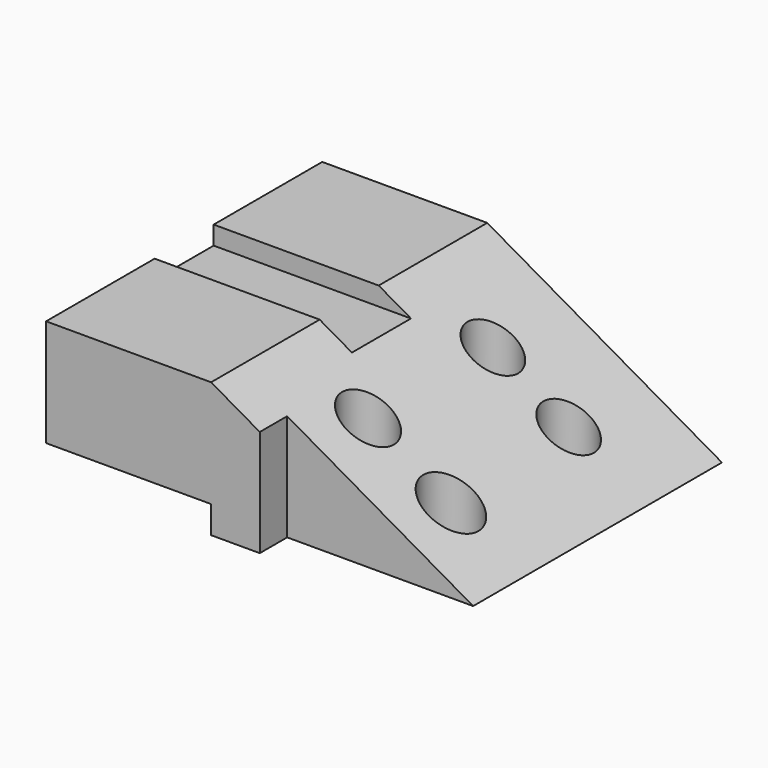
from build123d import *

# Parameters (mm, degrees)
F1_DEPTH  = 76.2
F2_DEPTH  = 76.2
F3_W      = 72.8542578737
F3_H      = 12.1001238003
F4_DEPTH  = 152.401
F5_W      = 82.1163672954
F5_H      = 15.1120005071
F6_DEPTH  = 59.4443229417
F7_W      = 32.5772352517
F7_H      = 8.1773027778
F8_DEPTH  = 176.4699010899
F9_R      = 11.4001375148
F10_DEPTH = 59.4443229417
F11_R     = 12.1676085245
F12_DEPTH = 59.4443229417
F13_R     = 11.1566059008
F14_DEPTH = 59.4443229417
F15_R     = 11.1566059008
F16_DEPTH = 59.4443229417


with BuildPart() as f1:
    # F0 (on Front) → F1 (new body)
    with BuildSketch(Plane.XZ):
        Polygon((103.6146432161, -22.3206151277), (0, 37.122707814), (-72.8542578737, 37.122707814), (-72.8542578737, -22.3206151277), align=None)
    extrude(amount=F1_DEPTH)

    # F2 (add): a face of the model
    f2_faces = [f1.faces().sort_by_distance(p)[0] for p in [
        (-6.935088319, 0, 3.283766903),
    ]]
    extrude(f2_faces, amount=F2_DEPTH)

    # F3 (on face) → F4 (cut, through all)
    with BuildSketch(Plane.XZ.offset(76.2)):
        with Locations((-36.4271289369, -16.2705532275)):
            Rectangle(F3_W, F3_H)
    extrude(amount=-F4_DEPTH, mode=Mode.SUBTRACT)

    # F5 (on face) → F6 (cut, through all)
    with BuildSketch(Plane(origin=(0, 0, -22.3206151277), x_dir=(1, 0, 0), z_dir=(0, 0, -1))):
        with Locations((62.5564595684, 68.6439997464)):
            Rectangle(F5_W, F5_H)
    extrude(amount=-F6_DEPTH, mode=Mode.SUBTRACT)

    # F7 (on face) → F8 (cut, through all)
    with BuildSketch(Plane(origin=(-72.8542578737, 0, 0), x_dir=(0, -1, 0), z_dir=(-1, 0, 0))):
        with Locations((0, 33.0340564251)):
            Rectangle(F7_W, F7_H)
    extrude(amount=-F8_DEPTH, mode=Mode.SUBTRACT)

    # F9 (on face) → F10 (cut, through all)
    with BuildSketch(Plane(origin=(0, 0, -22.3206151277), x_dir=(1, 0, 0), z_dir=(0, 0, -1))):
        with Locations((34.9696464837, 33.3093106747)):
            Circle(F9_R)
    extrude(amount=-F10_DEPTH, mode=Mode.SUBTRACT)

    # F11 (on face) → F12 (cut, through all)
    with BuildSketch(Plane(origin=(0, 0, -22.3206151277), x_dir=(1, 0, 0), z_dir=(0, 0, -1))):
        with Locations((71.5732872486, 33.3093106747)):
            Circle(F11_R)
    extrude(amount=-F12_DEPTH, mode=Mode.SUBTRACT)

    # F13 (on face) → F14 (cut, through all)
    with BuildSketch(Plane(origin=(0, 0, -22.3206151277), x_dir=(1, 0, 0), z_dir=(0, 0, -1))):
        with Locations((35.3356823325, -35.1394936442)):
            Circle(F13_R)
    extrude(amount=-F14_DEPTH, mode=Mode.SUBTRACT)

    # F15 (on face) → F16 (cut, through all)
    with BuildSketch(Plane(origin=(0, 0, -22.3206151277), x_dir=(1, 0, 0), z_dir=(0, 0, -1))):
        with Locations((69.3770647049, -34.4074219465)):
            Circle(F15_R)
    extrude(amount=-F16_DEPTH, mode=Mode.SUBTRACT)


solid = f1.part
